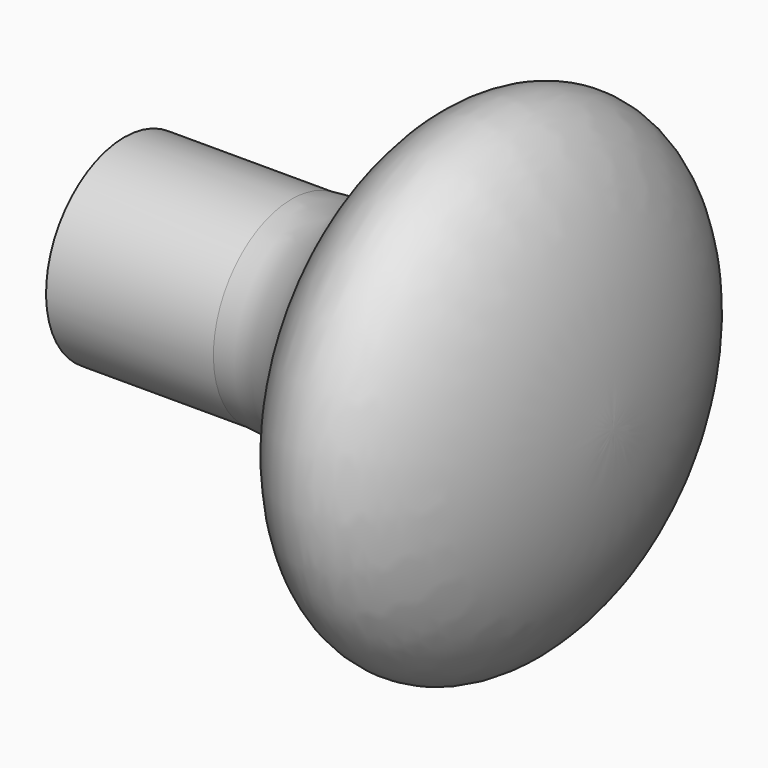
from build123d import *

# Parameters (mm, degrees)
F2_R = 10


with BuildPart() as f1:
    # F0 (on Front) → F1 (revolve)
    with BuildSketch(Plane.XZ):
        with BuildLine():
            Line((20.8348486101, 8), (0, 8))
            Line((0, 8), (0, 0))
            Line((0, 0), (40, 0))
            add(Edge.make_bspline(
                [(40, 0), (40, 16.2567213185), (32.0430964369, 19.5781262586), (24.0861928738, 22.8995311987), (20.8348486101, 8)],
                knots=[4.7123889804, 4.7123889804, 4.7123889804, 6.0774268841, 6.0774268841, 7.4424647879, 7.4424647879, 7.4424647879], degree=2, weights=[1, 0.7759863542, 1, 0.7759863542, 1]))
        make_face()
    revolve(axis=Axis((20, 0, 0), (1, 0, 0)))

    # F2
    f2_edges = [f1.edges().sort_by_distance(p)[0] for p in [
        (20.834849, 0, -8),
    ]]
    fillet(f2_edges, radius=F2_R)


solid = f1.part
